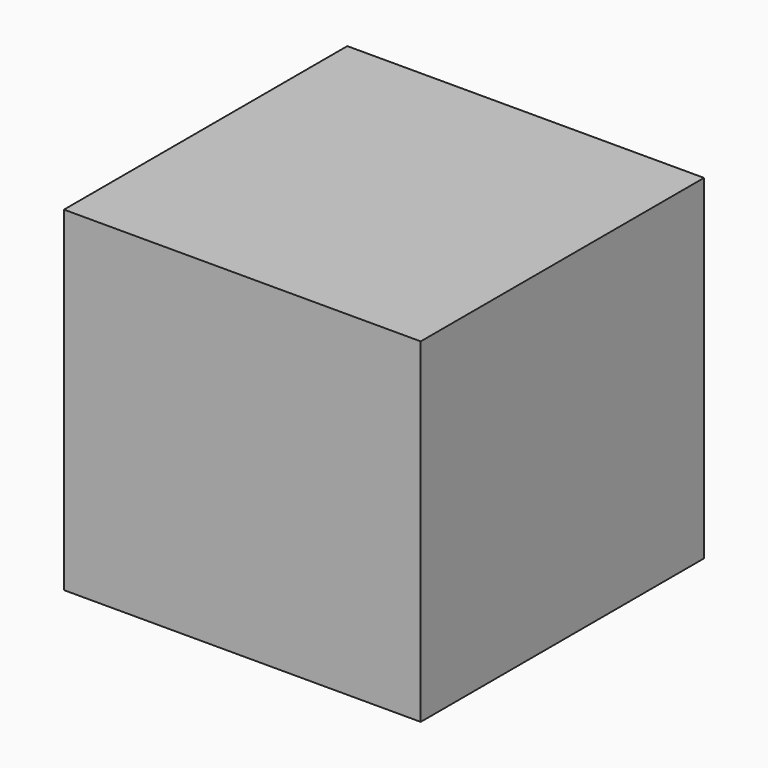
from build123d import *

# Parameters (mm, degrees)
F0_W     = 51.221348
F0_H     = 50.845277
F1_DEPTH = 48.1
F3_W     = 25.422638
F3_H     = 25.293316
F4_DEPTH = 48.1
F2_W     = 51.221348
F2_H     = 25.422638
F5_DEPTH = 25.4


with BuildPart() as f1:
    # F0 (on Top) → F1 (new body)
    with BuildSketch(Plane.XY):
        with Locations((25.610674, 25.422638)):
            Rectangle(F0_W, F0_H)
    extrude(amount=F1_DEPTH)

    # F3 (on face) → F4 (join)
    with BuildSketch(Plane(origin=(0, 0, 0), x_dir=(0, -1, 0), z_dir=(-1, 0, 0))):
        with Locations((-12.711319, 35.453342)):
            Rectangle(F3_W, F3_H)
    extrude(amount=-F4_DEPTH)

    # F2 (on face) → F5 (join)
    with BuildSketch(Plane.XY.offset(48.1)):
        with Locations((25.610674, 12.711319)):
            Rectangle(F2_W, F2_H)
    extrude(amount=-F5_DEPTH)


solid = f1.part
